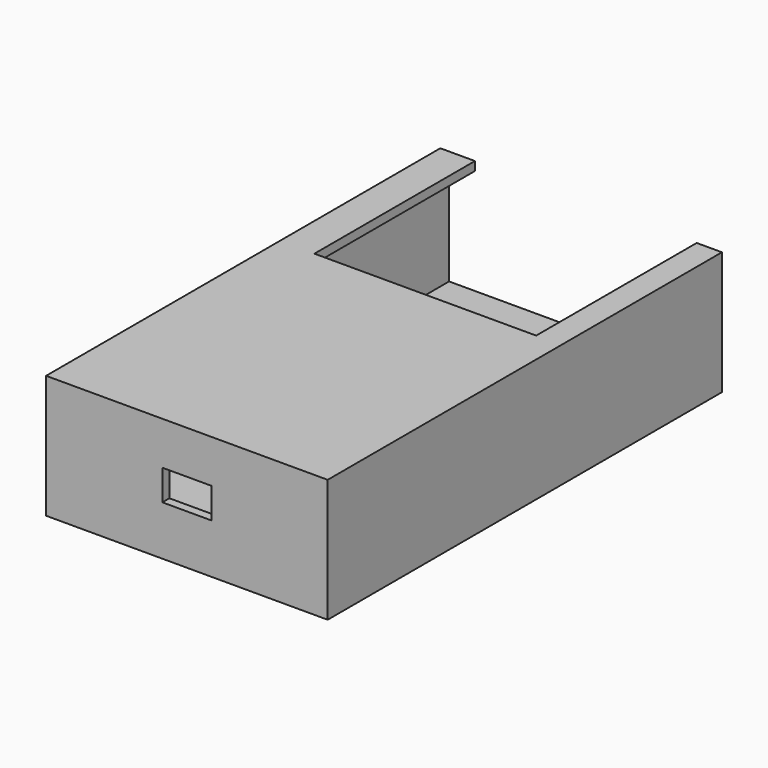
from build123d import *

# Parameters (mm, degrees)
F0_W     = 80
F0_H     = 140
F1_DEPTH = 35
F2_T     = -2.5
F3_W     = 63
F3_H     = 57
F4_DEPTH = 2.5
F5_W     = 13.924362
F5_H     = 8.664047
F6_DEPTH = 140.001


with BuildPart() as f1:
    # F0 (on Top) → F1 (new body)
    with BuildSketch(Plane.XY):
        Rectangle(F0_W, F0_H)
    extrude(amount=F1_DEPTH)

    # F2
    f2_openings = [f1.faces().sort_by_distance(p)[0] for p in [
        (0, 70, 17.5),
    ]]
    offset(amount=F2_T, openings=f2_openings)

    # F3 (on face) → F4 (cut)
    with BuildSketch(Plane.XY.offset(35)):
        with Locations((1.330548, 41.5)):
            Rectangle(F3_W, F3_H)
    extrude(amount=-F4_DEPTH, mode=Mode.SUBTRACT)

    # F5 (on face) → F6 (cut, through all)
    with BuildSketch(Plane.XZ.offset(70)):
        with Locations((0, 18.42829)):
            Rectangle(F5_W, F5_H)
    extrude(amount=-F6_DEPTH, mode=Mode.SUBTRACT)


solid = f1.part
